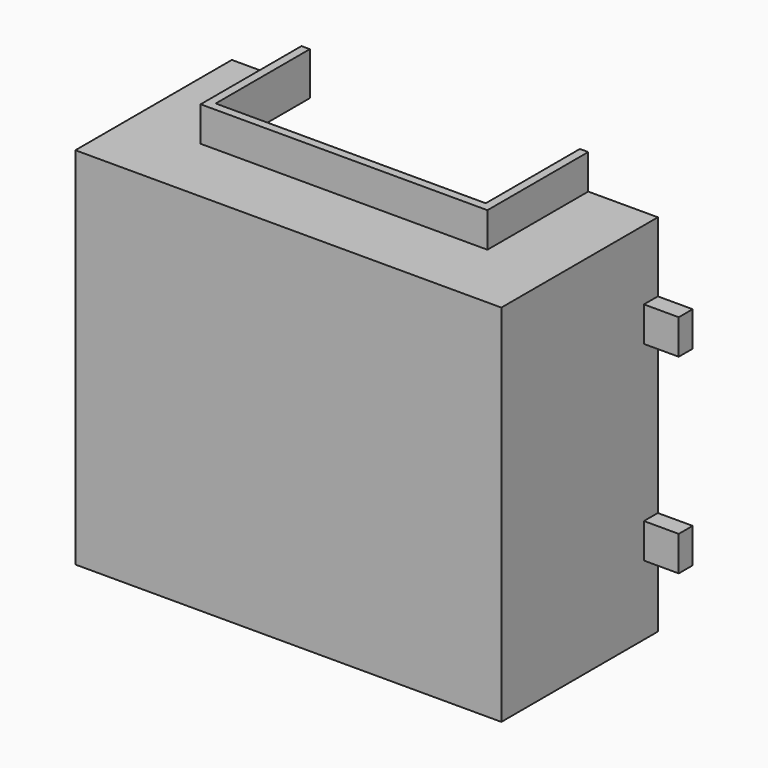
from build123d import *

# Parameters (mm, degrees)
F0_W      = 77.724
F0_H      = 35.687
F1_DEPTH  = 66.548
F2_T      = -1.524
F4_DEPTH  = 6.35
F5_DEPTH  = 25.4
F6_W      = 3.175
F6_H      = 6.35
F7_DEPTH  = 6.35
F8_W      = 3.175
F8_H      = 6.35
F9_DEPTH  = 6.35
F10_W     = 74.676
F10_H     = 63.5
F11_DEPTH = 1.524


with BuildPart() as f1:
    # F0 (on Top) → F1 (new body)
    with BuildSketch(Plane.XY):
        with Locations((38.862, 17.8435)):
            Rectangle(F0_W, F0_H)
    extrude(amount=F1_DEPTH)

    # F2 (hollow: no face is removed)
    offset(amount=F2_T, mode=Mode.SUBTRACT)

    # F3 (on face) → F4 (join)
    with BuildSketch(Plane.XY.offset(66.548)):
        Polygon((63.5, 14.224), (14.224, 14.224), (14.224, 35.687), (12.7, 35.687), (12.7, 12.7), (65.024, 12.7), (65.024, 35.687), (63.5, 35.687), align=None)
    extrude(amount=F4_DEPTH)

    # F5 (cut): a face of the model
    f5_faces = [f1.faces().sort_by_distance(p)[0] for p in [
        (38.862, 24.9555, 66.548),
    ]]
    extrude(f5_faces, amount=-F5_DEPTH, mode=Mode.SUBTRACT)

    # F6 (on face) → F7 (join)
    with BuildSketch(Plane.YZ.offset(77.724)):
        with Locations((34.0995, 15.875)):
            Rectangle(F6_W, F6_H)
        with Locations((34.0995, 50.673)):
            Rectangle(F6_W, F6_H)
    extrude(amount=F7_DEPTH)

    # F8 (on face) → F9 (join)
    with BuildSketch(Plane(origin=(0, 0, 0), x_dir=(0, -1, 0), z_dir=(-1, 0, 0))):
        with Locations((-34.0995, 15.875)):
            Rectangle(F8_W, F8_H)
        with Locations((-34.0995, 50.673)):
            Rectangle(F8_W, F8_H)
    extrude(amount=F9_DEPTH)

    # F10 (on face) → F11 (cut)
    with BuildSketch(Plane(origin=(0, 35.687, 0), x_dir=(-1, 0, 0), z_dir=(0, 1, 0))):
        with Locations((-38.862, 33.274)):
            Rectangle(F10_W, F10_H)
    extrude(amount=-F11_DEPTH, mode=Mode.SUBTRACT)


solid = f1.part
